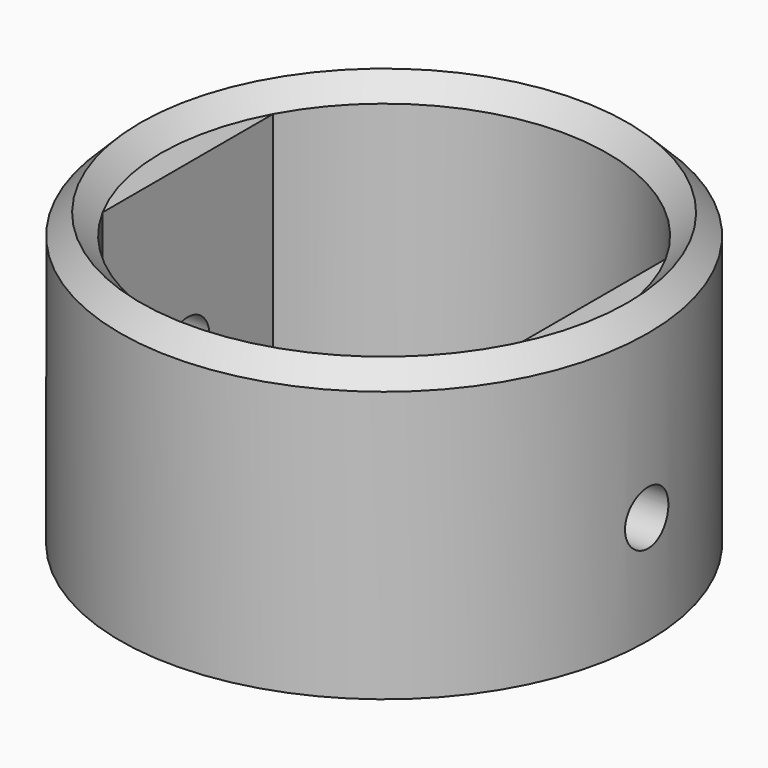
from build123d import *

# Parameters (mm, degrees)
SKETCH_R          = 19.5
PAD_DEPTH         = 20
SKETCH002_R       = 2
POCKET_DEPTH      = 21
POCKET_DEPTH_BACK = -21


with BuildPart() as part:
    # Sketch → Pad (new body)
    with BuildSketch(Plane.XY):
        Circle(SKETCH_R)
        with BuildLine():
            ThreePointArc((14.5, 7.874008), (0, 16.5), (-14.5, 7.874008))
            Line((-14.5, 7.874008), (-14.5, -7.874008))
            ThreePointArc((-14.5, -7.874008), (0, -16.5), (14.5, -7.874008))
            Line((14.5, 7.874008), (14.5, -7.874008))
        make_face(mode=Mode.SUBTRACT)
    extrude(amount=PAD_DEPTH)

    # Sketch001 → Revolution (revolve)
    with BuildSketch(Plane.XZ):
        Polygon((-19.5, 20), (-18, 21.5), (-16.5, 20), align=None)
    revolve(axis=Axis((0, 0, 0), (0, 0, 1)))

    # Sketch002 → Pocket (cut, two sides)
    with BuildSketch(Plane.YZ) as pocket_sk:
        with Locations((0, 8)):
            Circle(SKETCH002_R)
    extrude(amount=-POCKET_DEPTH, mode=Mode.SUBTRACT)
    extrude(pocket_sk.sketch, amount=-POCKET_DEPTH_BACK, mode=Mode.SUBTRACT)


solid = part.part
